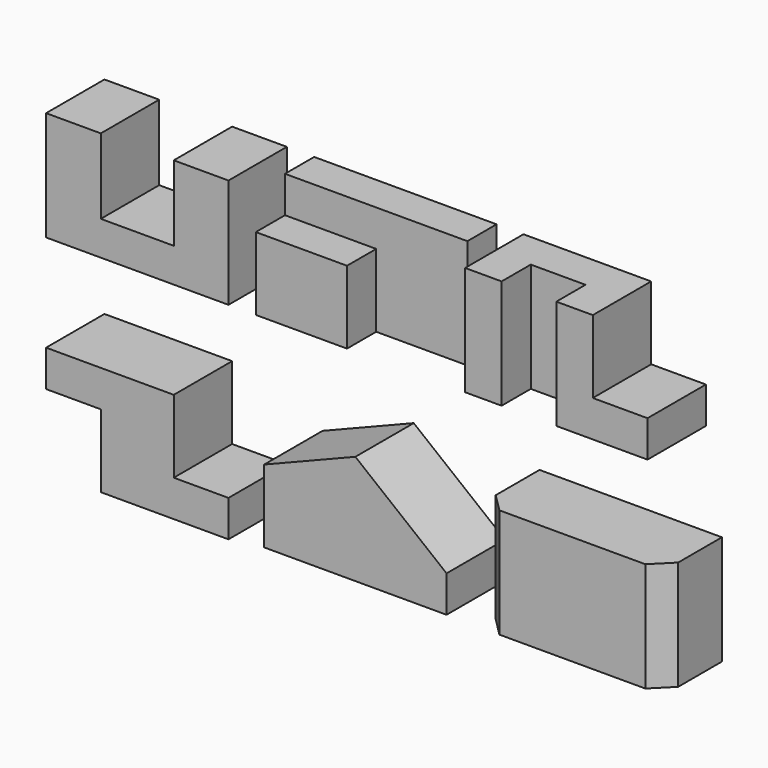
from build123d import *

# Parameters (mm, degrees)
F1_DEPTH  = 101.6
F2_W      = 127
F2_H      = 101.6
F3_DEPTH  = 101.6
F4_W      = 127
F4_H      = 50.8
F5_DEPTH  = 152.4
F6_W      = 127
F6_H      = 50.8
F7_DEPTH  = 50.8
F9_DEPTH  = 101.6
F10_W     = 76.2
F10_H     = 50.8
F11_DEPTH = 152.4
F13_DEPTH = 101.6
F15_DEPTH = 101.6
F16_W     = 254
F16_H     = 152.4
F17_DEPTH = 101.6
F19_DEPTH = 152.4
F21_DEPTH = 152.4


with BuildPart() as f1:
    # F0 (on Front) → F1 (new body)
    with BuildSketch(Plane.XZ):
        Polygon((0, 0), (254, 0), (254, 152.4), (177.8, 152.4), (177.8, 47.613418), (76.2, 47.613418), (76.2, 152.4), (0, 152.4), align=None)
    extrude(amount=-F1_DEPTH)


with BuildPart() as f3:
    # F2 (on Front) → F3 (new body)
    with BuildSketch(Plane.XZ):
        Polygon((292.055245, 152.4), (292.055245, 101.6), (419.055245, 101.6), (419.055245, 0), (546.055245, 0), (546.055245, 152.4), align=None)
        with Locations((355.555245, 50.8)):
            Rectangle(F2_W, F2_H)
    extrude(amount=-F3_DEPTH)

    # F4 (on face) → F5 (cut)
    with BuildSketch(Plane.XY.offset(152.4)):
        with Locations((482.555245, 25.4)):
            Rectangle(F4_W, F4_H)
    extrude(amount=-F5_DEPTH, mode=Mode.SUBTRACT)

    # F6 (on face) → F7 (cut)
    with BuildSketch(Plane.XZ):
        with Locations((355.555245, 127)):
            Rectangle(F6_W, F6_H)
    extrude(amount=-F7_DEPTH, mode=Mode.SUBTRACT)


with BuildPart() as f9:
    # F8 (on Front) → F9 (new body)
    with BuildSketch(Plane.XZ):
        Polygon((583.522435, 152.4), (583.522435, 0), (837.522435, 0), (837.522435, 50.8), (761.322435, 50.8), (761.322435, 152.4), align=None)
    extrude(amount=-F9_DEPTH)

    # F10 (on face) → F11 (cut)
    with BuildSketch(Plane.XY.offset(152.4)):
        with Locations((672.422435, 25.4)):
            Rectangle(F10_W, F10_H)
    extrude(amount=-F11_DEPTH, mode=Mode.SUBTRACT)


with BuildPart() as f13:
    # F12 (on Front) → F13 (new body)
    with BuildSketch(Plane.XZ):
        Polygon((177.8, -135.083224), (0, -135.083224), (0, -185.883224), (76.2, -185.883224), (76.2, -287.483224), (254, -287.483224), (254, -236.683224), (177.8, -236.683224), align=None)
    extrude(amount=-F13_DEPTH)


with BuildPart() as f15:
    # F14 (on Front) → F15 (new body)
    with BuildSketch(Plane.XZ):
        Polygon((303.70218, -281.213045), (557.70218, -281.213045), (557.70218, -230.413045), (430.70218, -128.813045), (303.70218, -179.613045), align=None)
    extrude(amount=-F15_DEPTH)


with BuildPart() as f17:
    # F16 (on Front) → F17 (new body)
    with BuildSketch(Plane.XZ):
        with Locations((732.860923, -205.420353)):
            Rectangle(F16_W, F16_H)
    extrude(amount=-F17_DEPTH)

    # F18 (on face) → F19 (cut)
    with BuildSketch(Plane.XY.offset(-129.220353)):
        Polygon((605.860923, 25.4), (605.860923, 0), (631.260923, 0), align=None)
    extrude(amount=-F19_DEPTH, mode=Mode.SUBTRACT)

    # F20 (on face) → F21 (cut)
    with BuildSketch(Plane.XY.offset(-129.220353)):
        Polygon((834.460923, 0), (859.860923, 0), (859.860923, 25.4), align=None)
    extrude(amount=-F21_DEPTH, mode=Mode.SUBTRACT)


solid = Compound([f1.part, f3.part, f9.part, f13.part, f15.part, f17.part])
